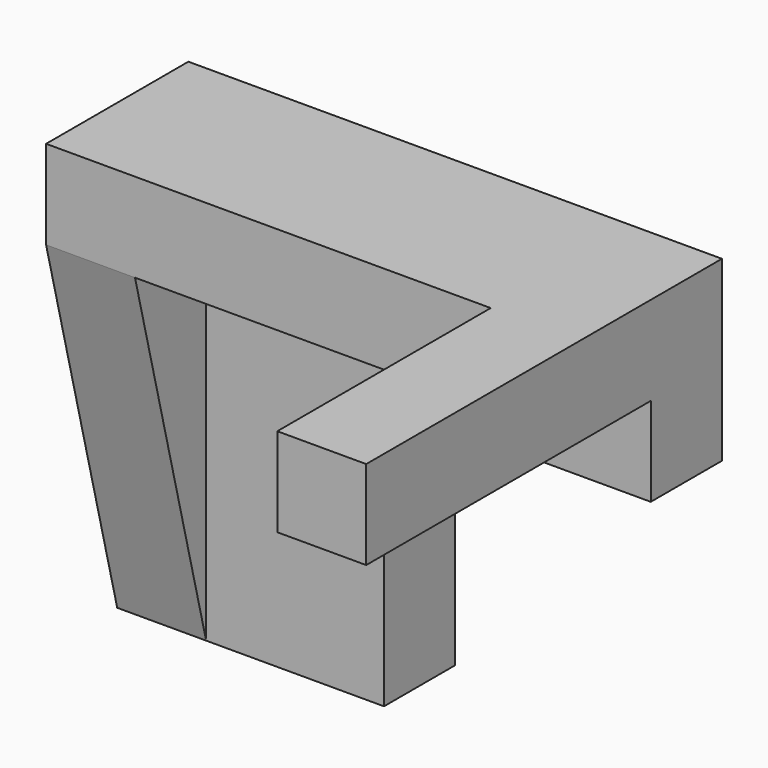
from build123d import *

# Parameters (mm, degrees)
F1_DEPTH  = 1270
F2_W      = 508
F2_H      = 762
F3_DEPTH  = 1016
F4_W      = 1270
F4_H      = 254
F5_DEPTH  = 1016
F7_DEPTH  = 254.001
F8_W      = 762
F8_H      = 762
F9_DEPTH  = 254.001
F10_W     = 508
F10_H     = 254
F11_DEPTH = 762
F12_W     = 254
F12_H     = 762
F13_DEPTH = 1016.001
F15_DEPTH = 254.001


with BuildPart() as f1:
    # F0 (on Front) → F1 (new body)
    with BuildSketch(Plane.XZ):
        Polygon((0, 1270), (0, 0), (762, 0), (762, 762), (1524, 762), (1524, 1270), align=None)
    extrude(amount=F1_DEPTH)

    # F2 (on face) → F3 (cut)
    with BuildSketch(Plane.XZ.offset(1270)):
        with Locations((508, 381)):
            Rectangle(F2_W, F2_H)
    extrude(amount=-F3_DEPTH, mode=Mode.SUBTRACT)

    # F4 (on face) → F5 (cut)
    with BuildSketch(Plane.XZ.offset(1270)):
        with Locations((889, 889)):
            Rectangle(F4_W, F4_H)
    extrude(amount=-F5_DEPTH, mode=Mode.SUBTRACT)

    # F6 (on face) → F7 (cut, through all)
    with BuildSketch(Plane.YZ.offset(254)):
        Polygon((-254, 0), (-1270, 1016), (-1270, 0), align=None)
    extrude(amount=-F7_DEPTH, mode=Mode.SUBTRACT)

    # F8 (on face) → F9 (cut, through all)
    with BuildSketch(Plane(origin=(0, 0, 1016), x_dir=(1, 0, 0), z_dir=(0, 0, -1))):
        with Locations((889, 889)):
            Rectangle(F8_W, F8_H)
    extrude(amount=-F9_DEPTH, mode=Mode.SUBTRACT)

    # F10 (on face) → F11 (cut)
    with BuildSketch(Plane.XZ.offset(1270)):
        with Locations((254, 1143)):
            Rectangle(F10_W, F10_H)
    extrude(amount=-F11_DEPTH, mode=Mode.SUBTRACT)

    # F12 (on face) → F13 (cut, through all)
    with BuildSketch(Plane.XY.offset(1016)):
        with Locations((127, -889)):
            Rectangle(F12_W, F12_H)
    extrude(amount=-F13_DEPTH, mode=Mode.SUBTRACT)

    # F14 (on face) → F15 (cut, through all)
    with BuildSketch(Plane.YZ.offset(254)):
        Polygon((-254, 0), (-508, 1016), (-508, 254), align=None)
    extrude(amount=-F15_DEPTH, mode=Mode.SUBTRACT)


solid = f1.part
